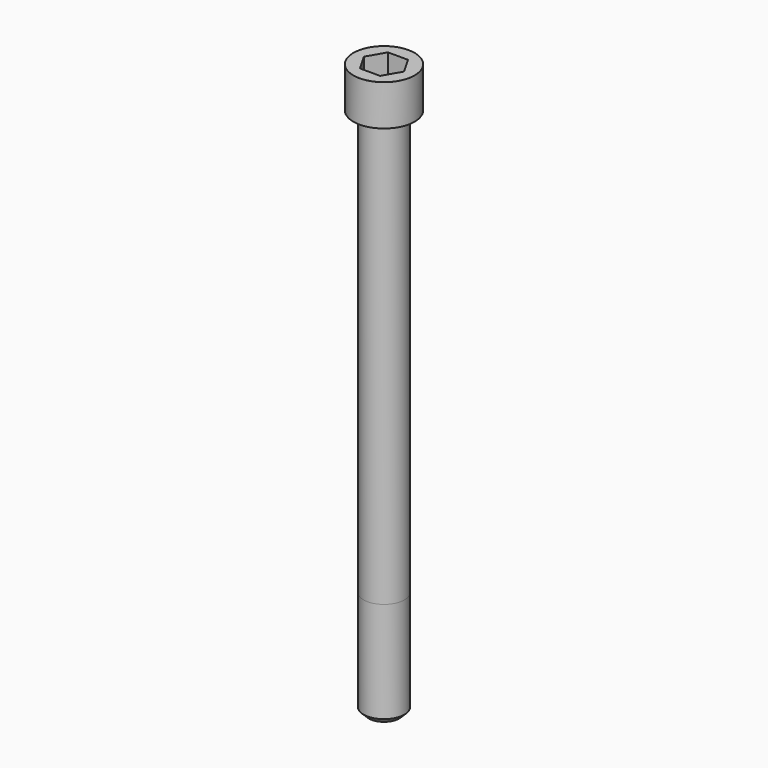
from build123d import *

# Parameters (mm, degrees)
POCKET_DEPTH = 17.1


with BuildPart() as part:
    # Sketch → Revolve (revolve)
    with BuildSketch(Plane.YZ):
        with BuildLine():
            Line((9.999, 0), (15, 0))
            Line((15, 0), (15, 19.97229))
            ThreePointArc((15, 19.97229), (14.991884, 19.991884), (14.97229, 20))
            Line((14.97229, 20), (0, 20))
            Line((0, -260), (0, 20))
            Line((7.5, -260), (0, -260))
            Line((10, -257.5), (7.5, -260))
            Line((10, -208), (10, -257.5))
            Line((9.999, 0), (10, -208))
        make_face()
    revolve(axis=Axis((0, 0, 0), (0, 0, 1)))

    # Sketch001 → Pocket (cut)
    with BuildSketch(Plane.XY.offset(20)):
        Polygon((9.87269, 0), (4.936345, 8.55), (-4.936345, 8.55), (-9.87269, 0), (-4.936345, -8.55), (4.936345, -8.55), align=None)
    extrude(amount=-POCKET_DEPTH, mode=Mode.SUBTRACT)


solid = part.part
